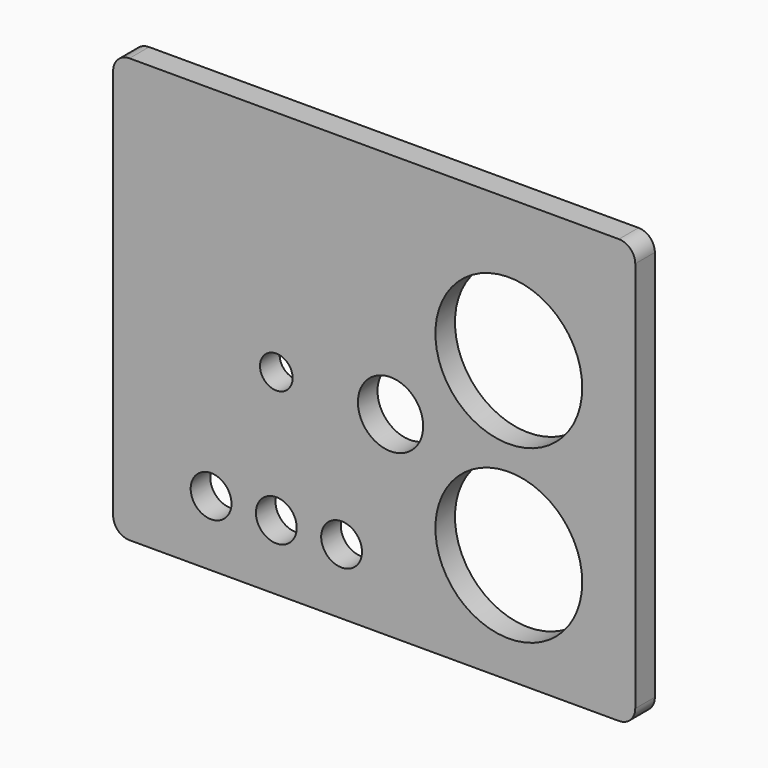
from build123d import *

# Parameters (mm, degrees)
F1_DEPTH = 9.525
F2_R     = 28.575
F3_R     = 7.9375
F5_R     = 6.35
F4_R     = 12.7
F6_DEPTH = 9.526


with BuildPart() as f1:
    # F0 (on Front) → F1 (new body)
    with BuildSketch(Plane.XZ):
        with BuildLine():
            Line((-95.25, -82.55), (95.25, -82.55))
            ThreePointArc((95.25, -82.55), (99.740128, -80.690128), (101.6, -76.2))
            Line((101.6, -76.2), (101.6, 76.2))
            ThreePointArc((101.6, 76.2), (99.740128, 80.690128), (95.25, 82.55))
            Line((95.25, 82.55), (-95.25, 82.55))
            ThreePointArc((-95.25, 82.55), (-99.740128, 80.690128), (-101.6, 76.2))
            Line((-101.6, 76.2), (-101.6, -76.2))
            ThreePointArc((-101.6, -76.2), (-99.740128, -80.690128), (-95.25, -82.55))
        make_face()
    extrude(amount=F1_DEPTH)

    # F2 (on face) + F3 (on face) + F5 (on face) + F4 (on face) → F6 (cut, through all)
    with BuildSketch(Plane.XZ.offset(9.525)):
        with Locations((52.3875, 26.9875)):
            Circle(F2_R)
        with Locations((52.3875, -39.6875)):
            Circle(F2_R)
    with BuildSketch(Plane.XZ.offset(9.525)):
        with Locations((-63.5, -57.15)):
            Circle(F3_R)
        with Locations((-38.1, -57.15)):
            Circle(F3_R)
        with Locations((-12.7, -57.15)):
            Circle(F3_R)
    with BuildSketch(Plane.XZ.offset(9.525)):
        with Locations((-38.1, -6.35)):
            Circle(F5_R)
    with BuildSketch(Plane.XZ.offset(9.525)):
        with Locations((6.35, -6.35)):
            Circle(F4_R)
    extrude(amount=-F6_DEPTH, mode=Mode.SUBTRACT)


solid = f1.part
